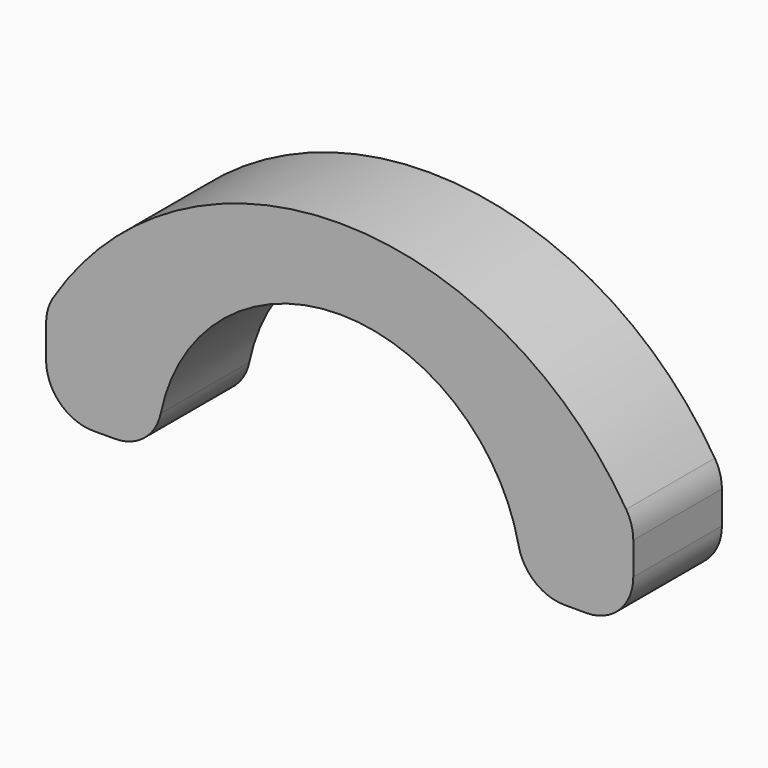
from build123d import *

# Parameters (mm, degrees)
F1_DEPTH = 12
F2_R     = 5.08
F3_R     = 5.08


with BuildPart() as f1:
    # F0 (on Front) → F1 (new body)
    with BuildSketch(Plane.XZ):
        with BuildLine():
            ThreePointArc((-19.800265, 0), (0, 19.800265), (19.800265, 0))
            Line((19.800265, 0), (31.800265, 0))
            Line((31.800265, 0), (31.800265, 10))
            ThreePointArc((31.800265, 10), (0, 28.488275), (-31.800265, 10))
            Line((-31.800265, 10), (-31.800265, 0))
            Line((-31.800265, 0), (-19.800265, 0))
        make_face()
    extrude(amount=F1_DEPTH)

    # F2
    f2_edges = [f1.edges().sort_by_distance(p)[0] for p in [
        (31.800265, -6, 10),
        (31.800265, -6, 0),
        (-31.800265, -6, 10),
        (-31.800265, -6, 0),
    ]]
    fillet(f2_edges, radius=F2_R)

    # F3
    f3_edges = [f1.edges().sort_by_distance(p)[0] for p in [
        (19.800265, -6, 0),
        (-19.800265, -6, 0),
    ]]
    fillet(f3_edges, radius=F3_R)


solid = f1.part
